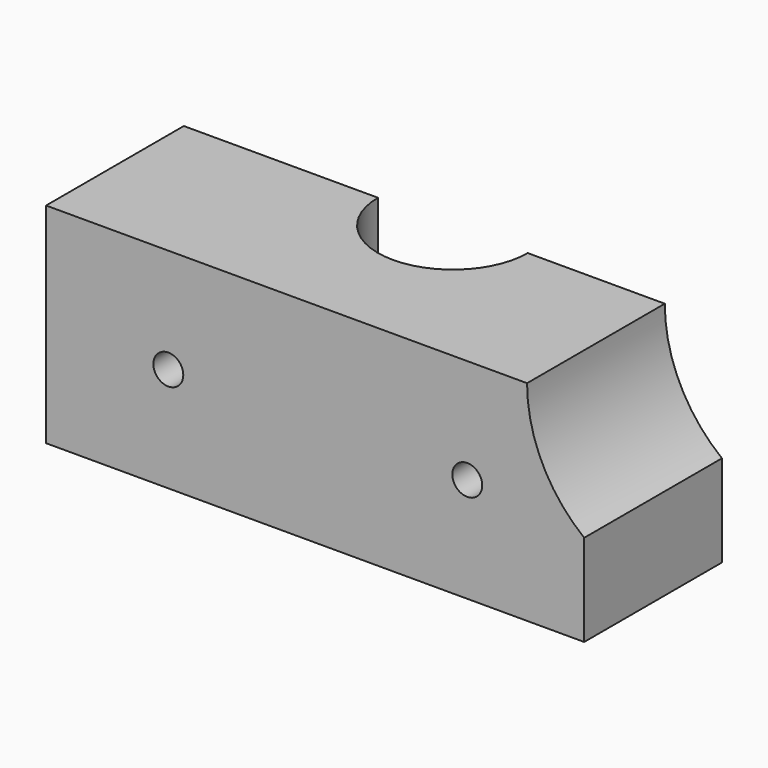
from build123d import *

# Parameters (mm, degrees)
CYLINDER024_R     = 0.5
CYLINDER024_DEPTH = 20
CYLINDER025_R     = 0.5
CYLINDER025_DEPTH = 20
CYLINDER007_R     = 5
CYLINDER007_DEPTH = 13
PAD006_DEPTH      = 7
SKETCH064_W       = 2
SKETCH064_H       = 3
POCKET006_DEPTH   = 3


with BuildPart() as cylinder024:
    # Cylinder024 → Cylinder024 (new body)
    with BuildSketch(Plane(origin=(39, 12, 17.5), x_dir=(1, 0, 0), z_dir=(0, -1, 0))):
        Circle(CYLINDER024_R)
    extrude(amount=CYLINDER024_DEPTH)


with BuildPart() as fusion025:
    # Cylinder025 → Cylinder025 (new body)
    with BuildSketch(Plane(origin=(49, 12, 17.5), x_dir=(1, 0, 0), z_dir=(0, -1, 0))):
        Circle(CYLINDER025_R)
    extrude(amount=CYLINDER025_DEPTH)

    # Fusion025: union Cylinder024
    add(cylinder024.part)


with BuildPart() as cylinder007:
    # Cylinder007 → Cylinder007 (new body)
    with BuildSketch(Plane(origin=(56, -3, 21), x_dir=(1, 0, 0), z_dir=(0, 1, 0))):
        Circle(CYLINDER007_R)
    extrude(amount=CYLINDER007_DEPTH)


with BuildPart() as potbottommount:
    # Sketch054 → Pad006 (new body)
    with BuildSketch(Plane.XY):
        with BuildLine():
            ThreePointArc((41.408643, 2.758552), (43.911108, 0.256087), (46.413573, 2.758552))
            Line((52.911107, 2.758552), (46.413573, 2.758552))
            Line((52.911107, -3), (52.911107, 2.758552))
            Line((34.911109, -3), (52.911107, -3))
            Line((34.911109, 2.758552), (34.911109, -3))
            Line((41.408643, 2.758552), (34.911109, 2.758552))
        make_face()
    extrude(amount=PAD006_DEPTH)

    # Sketch064 → Pocket006 (cut)
    with BuildSketch(Plane.XY):
        with Locations((35.911109, 2.762661)):
            Rectangle(SKETCH064_W, SKETCH064_H)
    extrude(amount=POCKET006_DEPTH, mode=Mode.SUBTRACT)


with BuildPart() as potbottommount_1:
    # Body006 placement: moved
    add(potbottommount.part.moved(Location((0, 0, 14))))

    # Cut004: cut Cylinder007
    add(cylinder007.part, mode=Mode.SUBTRACT)

    # Cut018: cut Fusion025
    add(fusion025.part, mode=Mode.SUBTRACT)


solid = potbottommount_1.part
